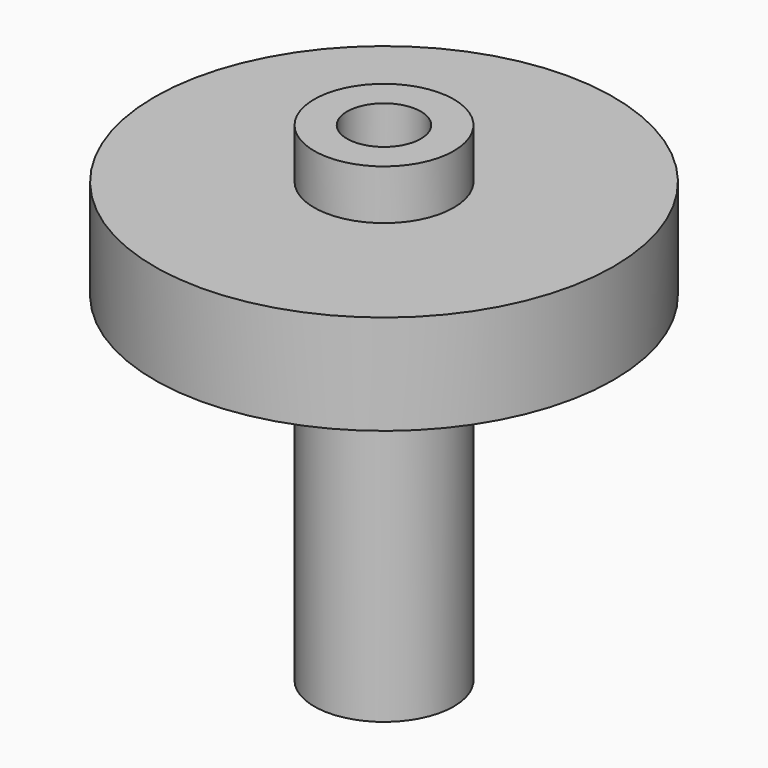
from build123d import *

# Parameters (mm, degrees)
F2_R     = 4.699
F3_DEPTH = 9.525
F4_R     = 1.5875
F5_DEPTH = 12.7


with BuildPart() as f1:
    # F0 (on Front) → F1 (revolve)
    with BuildSketch(Plane.XZ):
        Polygon((0, 62.23), (0, 0), (8.89, 0), (8.89, 43.18), (29.21, 43.18), (29.21, 55.88), (8.89, 55.88), (8.89, 62.23), align=None)
    revolve(axis=Axis((0, 0, 31.115), (0, 0, -1)))

    # F2 (on face) → F3 (cut)
    with BuildSketch(Plane.XY.offset(62.23)):
        Circle(F2_R)
    extrude(amount=-F3_DEPTH, mode=Mode.SUBTRACT)

    # F4 (on face) → F5 (cut)
    with BuildSketch(Plane(origin=(0, 0, 0), x_dir=(1, 0, 0), z_dir=(0, 0, -1))):
        Circle(F4_R)
    extrude(amount=-F5_DEPTH, mode=Mode.SUBTRACT)


solid = f1.part
